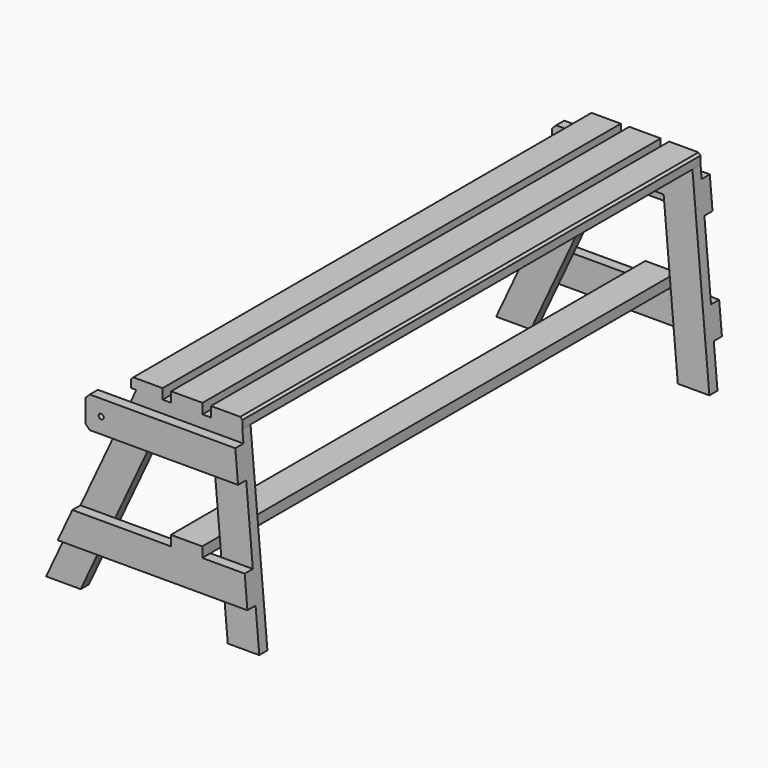
from build123d import *

# Parameters (mm, degrees)
F2_DEPTH  = 24
F4_DEPTH  = 24
F5_W      = 74
F5_H      = 699
F6_DEPTH  = 24
F7_R      = 6
F8_DEPTH  = 699.001
F9_SIZE   = 10
F10_W     = 74
F10_H     = 651
F10_H_2   = 24
F10_W_2   = 62
F11_DEPTH = 24
F12_SIZE  = 5


with BuildPart() as f2:
    # F1 (on Front) → F2 (new body)
    with BuildSketch(Plane.XZ):
        Polygon((212.6362921187, 456), (0, 0), (81.6499660032, 0), (259.7794914184, 382), (394.8277852414, 382), (428.2484547083, 0), (502.5311226865, 0), (462.6362921187, 456), align=None)
    extrude(amount=F2_DEPTH)

    # F3 (on face) → F4 (join)
    with BuildSketch(Plane.XZ.offset(24)):
        Polygon((164.6066033287, 353), (199.1133700322, 427), (112.1734633609, 427), (112.1734633609, 353), align=None)
        Polygon((471.6476244618, 353), (465.1734633609, 427), (199.1133700322, 427), (164.6066033287, 353), (246.2565693319, 353), (259.7794914184, 382), (394.8277852414, 382), (397.3649564836, 353), align=None)
        Polygon((419.4995883557, 100), (413.0254272548, 174), (162.7874985222, 174), (128.2807318187, 100), align=None)
        Polygon((162.7874985222, 174), (81.137532519, 174), (46.6307658155, 100), (128.2807318187, 100), align=None)
        Polygon((493.7822563339, 100), (487.308095233, 174), (413.0254272548, 174), (419.4995883557, 100), align=None)
        Polygon((246.2565693319, 353), (397.3649564836, 353), (394.8277852414, 382), (259.7794914184, 382), align=None)
    extrude(amount=F4_DEPTH)

    # F5 (on face) → F6 (join)
    with BuildSketch(Plane.XY.offset(174)):
        with Locations((350.308095233, 301.5)):
            Rectangle(F5_W, F5_H)
    extrude(amount=F6_DEPTH)

    # F7 (on face) → F8 (cut, through all)
    with BuildSketch(Plane.XZ.offset(48)):
        with Locations((149.1734633609, 390)):
            Circle(F7_R)
    extrude(amount=-F8_DEPTH, mode=Mode.SUBTRACT)

    # F9
    f9_edges = [f2.edges().sort_by_distance(p)[0] for p in [
        (112.173463, -36, 427),
        (112.173463, -36, 353),
    ]]
    chamfer(f9_edges, length=F9_SIZE)

    # F10 (on face) → F11 (join)
    with BuildSketch(Plane.XY.offset(456)):
        with Locations((425.6362921187, 325.5)):
            Rectangle(F10_W, F10_H)
        with Locations((331.6362921187, 325.5)):
            Rectangle(F10_W, F10_H)
        with Locations((425.6362921187, -12)):
            Rectangle(F10_W, F10_H_2)
        with Locations((331.6362921187, -12)):
            Rectangle(F10_W, F10_H_2)
        with Locations((243.6362921187, -12)):
            Rectangle(F10_W_2, F10_H_2)
        Polygon((212.6362921187, 0), (274.6362921187, 0), (274.6362921187, 651), (200.6362921187, 651), (200.6362921187, -24), (212.6362921187, -24), align=None)
        Polygon((212.6362921187, 0), (274.6362921187, 0), (274.6362921187, 651), (200.6362921187, 651), (200.6362921187, -24), (212.6362921187, -24), align=None)
    extrude(amount=F11_DEPTH)

    # F12
    f12_edges = [f2.edges().sort_by_distance(p)[0] for p in [
        (200.636292, 313.5, 480),
        (462.636292, 313.5, 480),
    ]]
    chamfer(f12_edges, length=F12_SIZE)

    # F13: F2 across face


with BuildPart() as f2_1:
    add(f2.part)
    add(f2.part.mirror(Plane(origin=(350.308095233, 651, 186), x_dir=(-1, 0, 0), z_dir=(0, 1, 0))))


solid = f2_1.part
